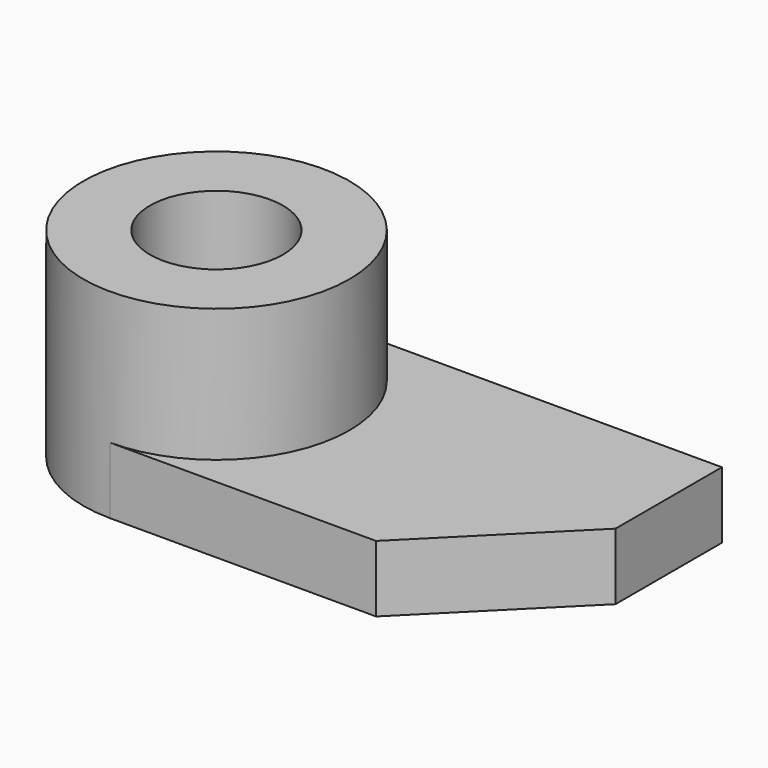
from build123d import *

# Parameters (mm, degrees)
F0_W     = 38.1
F0_H     = 25.4
F1_DEPTH = 6.35
F2_R     = 12.7
F3_DEPTH = 19.05
F4_R     = 6.35
F5_DEPTH = 19.05
F7_DEPTH = 6.35


with BuildPart() as f1:
    # F0 (on Top) → F1 (new body)
    with BuildSketch(Plane.XY):
        with Locations((19.05, 12.7)):
            Rectangle(F0_W, F0_H)
    extrude(amount=F1_DEPTH)

    # F2 (on Top) → F3 (join)
    with BuildSketch(Plane.XY):
        with Locations((0, 12.7)):
            Circle(F2_R)
    extrude(amount=F3_DEPTH)

    # F4 (on face) → F5 (cut)
    with BuildSketch(Plane.XY.offset(19.05)):
        with Locations((0, 12.7)):
            Circle(F4_R)
    extrude(amount=-F5_DEPTH, mode=Mode.SUBTRACT)

    # F6 (on Top) → F7 (cut)
    with BuildSketch(Plane.XY):
        Polygon((38.1, 12.7), (25.4, 0), (38.1, 0), align=None)
    extrude(amount=F7_DEPTH, mode=Mode.SUBTRACT)


solid = f1.part
